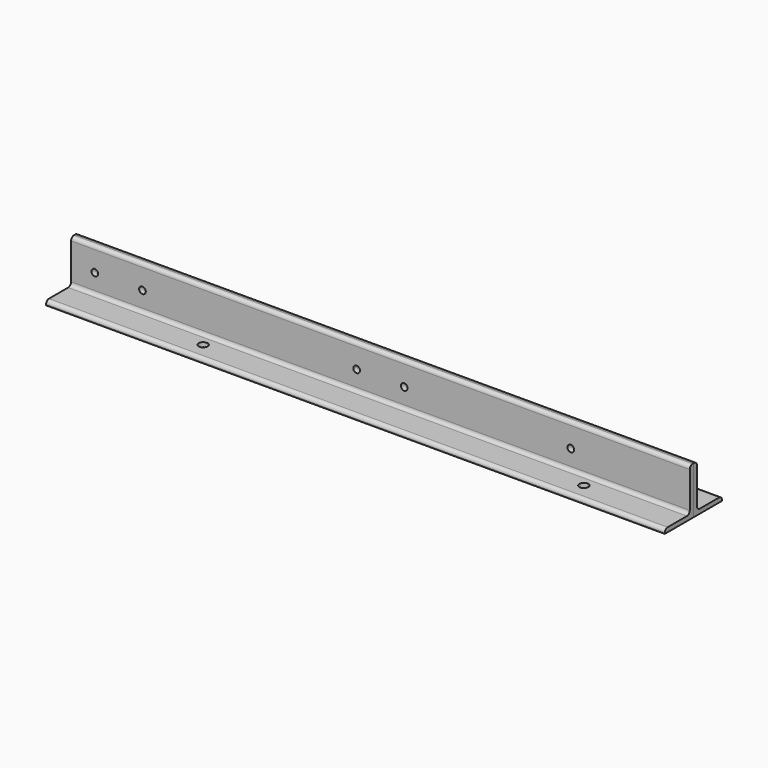
from build123d import *

# Parameters (mm, degrees)
F1_DEPTH = 330.2
F3_D     = 7.14375
F5_D     = 9.525


with BuildPart() as f1:
    # F0 (on Right) → F1 (new body, symmetric)
    with BuildSketch(Plane.YZ):
        with BuildLine():
            Line((0, 0), (0, 50.8))
            Line((0, 50.8), (-0.9652, 50.8))
            ThreePointArc((-0.9652, 50.8), (-3.659277, 49.684077), (-4.7752, 46.99))
            Line((-4.7752, 46.99), (-4.7752, 8.5725))
            ThreePointArc((-4.7752, 8.5725), (-5.891123, 5.878423), (-8.5852, 4.7625))
            Line((-8.5852, 4.7625), (-34.29, 4.7625))
            ThreePointArc((-34.29, 4.7625), (-36.984077, 3.646577), (-38.1, 0.9525))
            Line((-38.1, 0.9525), (-38.1, 0))
            Line((-38.1, 0), (0, 0))
        make_face()
    extrude(amount=F1_DEPTH, both=True)

    # F3 (through all)
    with Locations(Plane(origin=(0, 0, 0), x_dir=(-1, 0, 0), z_dir=(0, 1, 0))):
        with Locations((254, 25.4), (25.4, 25.4), (-203.2, 25.4), (-25.4, 25.4), (304.8, 25.4)):
            Hole(F3_D / 2)

    # F5 (through all)
    with Locations(Plane(origin=(0, 0, 0), x_dir=(1, 0, 0), z_dir=(0, 0, -1))):
        with Locations((228.6, 19.05), (-177.8, 19.05)):
            Hole(F5_D / 2)


with BuildPart() as f6_1:
    # F6: instance of F1
    add(f1.part.mirror(Plane.XZ))


solid = Compound([f1.part, f6_1.part])
